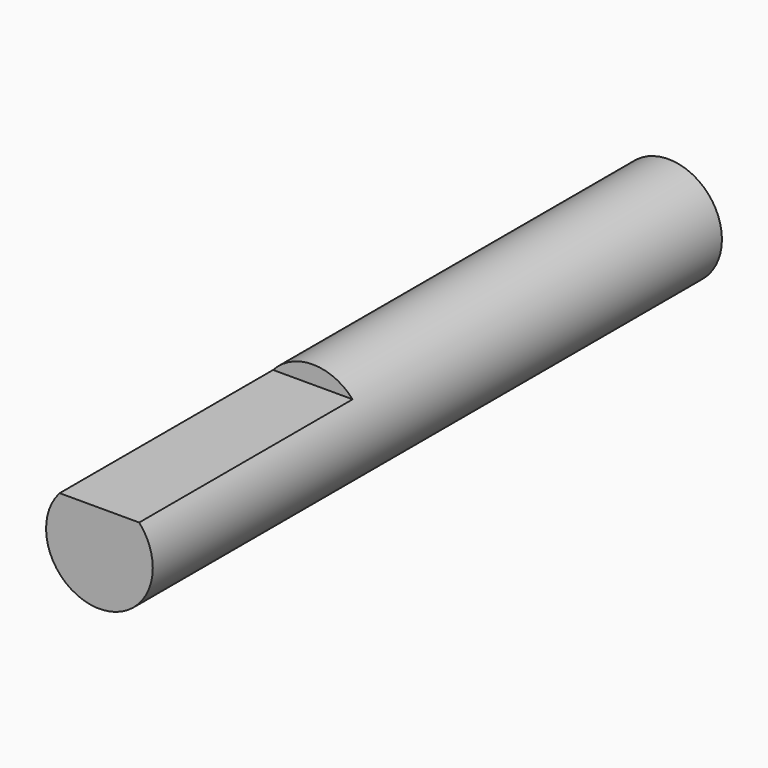
from build123d import *

# Parameters (mm, degrees)
F0_R     = 3
F1_DEPTH = 40
F2_W     = 7
F2_H     = 3
F3_DEPTH = 15


with BuildPart() as f1:
    # F0 (on Front) → F1 (new body)
    with BuildSketch(Plane.XZ):
        Circle(F0_R)
    extrude(amount=F1_DEPTH)

    # F2 (on face) → F3 (cut)
    with BuildSketch(Plane.XZ.offset(40)):
        with Locations((0, 3.5)):
            Rectangle(F2_W, F2_H)
    extrude(amount=-F3_DEPTH, mode=Mode.SUBTRACT)


solid = f1.part
